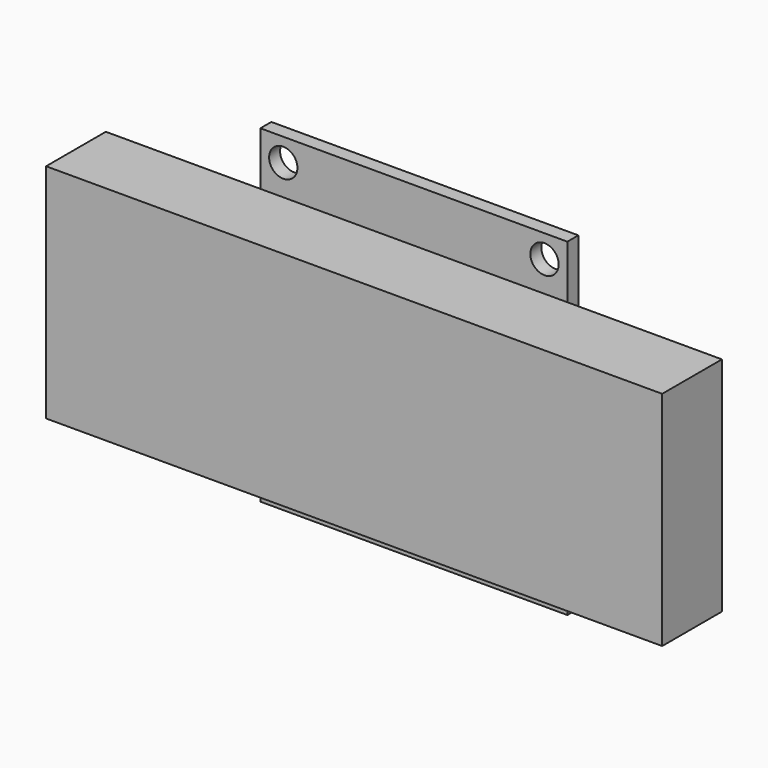
from build123d import *

# Parameters (mm, degrees)
F0_W     = 18.034
F0_H     = 25.908
F0_W_2   = 35.814
F1_DEPTH = 8.7122
F0_H_2   = 6.223
F0_R     = 1.651
F2_DEPTH = 1.6002


with BuildPart() as f1:
    # F0 (on Front) → F1 (new body)
    with BuildSketch(Plane.XZ):
        with Locations((-26.924, 0)):
            Rectangle(F0_W, F0_H)
        Rectangle(F0_W_2, F0_H)
        with Locations((26.924, 0)):
            Rectangle(F0_W, F0_H)
    extrude(amount=F1_DEPTH)

    # F0 (on Front) → F2 (join)
    with BuildSketch(Plane.XZ):
        Rectangle(F0_W_2, F0_H)
        with Locations((0, -16.0655)):
            Rectangle(F0_W_2, F0_H_2)
        with Locations((-15.24, -16.51)):
            Circle(F0_R, mode=Mode.SUBTRACT)
        with Locations((15.24, -16.51)):
            Circle(F0_R, mode=Mode.SUBTRACT)
        with Locations((0, 16.0655)):
            Rectangle(F0_W_2, F0_H_2)
        with Locations((-15.24, 16.51)):
            Circle(F0_R, mode=Mode.SUBTRACT)
        with Locations((15.24, 16.51)):
            Circle(F0_R, mode=Mode.SUBTRACT)
    extrude(amount=-F2_DEPTH)


solid = f1.part
